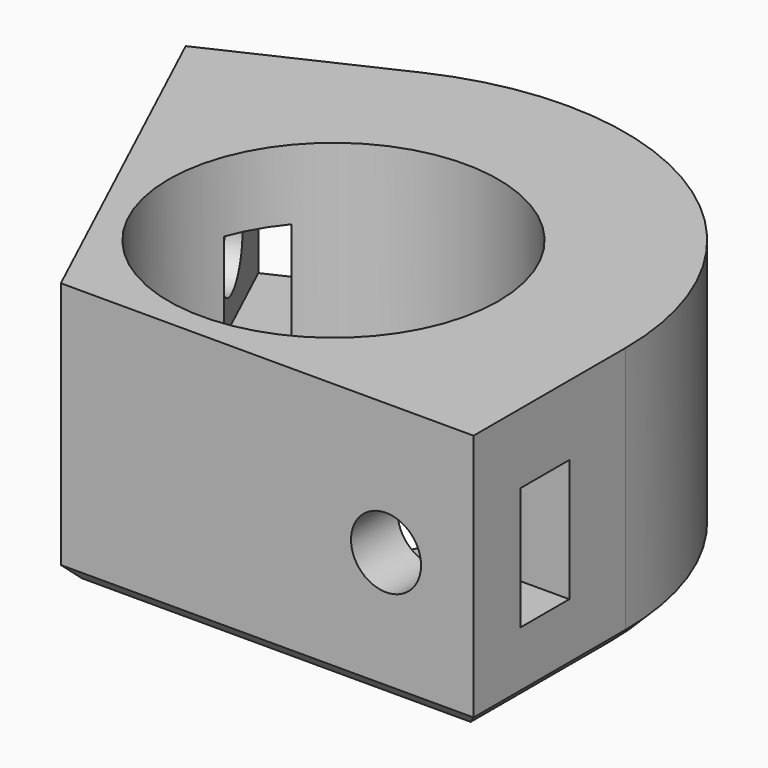
from build123d import *

# Parameters (mm, degrees)
SKETCH_R             = 1.2
PAD_DEPTH            = 18
POCKET001_DEPTH      = 0.001
POCKET001_DEPTH_BACK = 18.001
SKETCH001_R          = 11.3
POCKET_DEPTH         = 16.5
SKETCH003_R          = 2.4
POCKET002_DEPTH      = 13
SKETCH004_R          = 2.4
POCKET003_DEPTH      = 13
SKETCH005_W          = 4.2
SKETCH005_H          = 8.4
POCKET004_DEPTH      = 12
SKETCH007_W          = 4.2
SKETCH007_H          = 8.4
POCKET005_DEPTH      = 12
CHAMFER_SIZE         = 1


with BuildPart() as part:
    # Sketch → Pad (new body)
    with BuildSketch(Plane.XY):
        with BuildLine():
            Line((-8.2819133905, -13), (-20.2343664663, 12.6321183381))
            Line((-20.2343664663, 12.6321183381), (-8.4523652348, 18.1261557407))
            ThreePointArc((20, 0), (10.7459921669, 16.8678289163), (-8.4523652348, 18.1261557407))
            Line((20, -13), (20, 0))
            Line((-8.2819133905, -13), (20, -13))
        make_face()
        with Locations((0, 9)):
            Circle(SKETCH_R, mode=Mode.SUBTRACT)
        with Locations((0, -9)):
            Circle(SKETCH_R, mode=Mode.SUBTRACT)
        with Locations((9, 0)):
            Circle(SKETCH_R, mode=Mode.SUBTRACT)
        with Locations((-9, 0)):
            Circle(SKETCH_R, mode=Mode.SUBTRACT)
    extrude(amount=PAD_DEPTH)

    # Sketch002 → Pocket001 (cut, two sides)
    with BuildSketch(Plane.XY) as pocket001_sk:
        with BuildLine():
            Line((-1.7956262222, -6.9724978645), (-6.9724978645, -1.7956262222))
            ThreePointArc((1.7956262222, 6.9724978645), (-5.0911688245, 5.0911688245), (-6.9724978645, -1.7956262222))
            Line((1.7956262222, 6.9724978645), (6.9724978645, 1.7956262222))
            ThreePointArc((-1.7956262222, -6.9724978645), (5.0911688245, -5.0911688245), (6.9724978645, 1.7956262222))
        make_face()
    extrude(amount=-POCKET001_DEPTH, mode=Mode.SUBTRACT)
    extrude(pocket001_sk.sketch, amount=POCKET001_DEPTH_BACK, mode=Mode.SUBTRACT)

    # Sketch001 (on Face11 of Pad) → Pocket (cut)
    with BuildSketch(Plane.XY.offset(18)):
        Circle(SKETCH001_R)
    extrude(amount=-POCKET_DEPTH, mode=Mode.SUBTRACT)

    # Sketch003 (on Face1 of Pocket) → Pocket002 (cut)
    with BuildSketch(Plane(origin=(-11.7820012315, -5.4940374026, 0), x_dir=(0.4226182617, -0.906307787, 0), z_dir=(-0.906307787, -0.4226182617, 0))):
        with Locations((-14, 9)):
            Circle(SKETCH003_R)
    extrude(amount=-POCKET002_DEPTH, mode=Mode.SUBTRACT)

    # Sketch004 (on Face2 of Pocket002) → Pocket003 (cut)
    with BuildSketch(Plane.XZ.offset(13)):
        with Locations((14, 9)):
            Circle(SKETCH004_R)
    extrude(amount=-POCKET003_DEPTH, mode=Mode.SUBTRACT)

    # Sketch005 (on Face5 of Pocket003) → Pocket004 (cut)
    with BuildSketch(Plane(origin=(-8.4523652348, 18.1261557407, 0), x_dir=(-0.906307787, -0.4226182617, 0), z_dir=(-0.4226182617, 0.906307787, 0))):
        with Locations((6.9, 9)):
            Rectangle(SKETCH005_W, SKETCH005_H)
    extrude(amount=-POCKET004_DEPTH, mode=Mode.SUBTRACT)

    # Sketch007 (on Face7 of Pocket004) → Pocket005 (cut)
    with BuildSketch(Plane.YZ.offset(20)):
        with Locations((-6.9, 9)):
            Rectangle(SKETCH007_W, SKETCH007_H)
    extrude(amount=-POCKET005_DEPTH, mode=Mode.SUBTRACT)

    # Chamfer
    chamfer_edges = [part.edges().sort_by_distance(p)[0] for p in [
        (20, -6.5, 0),
        (10.745992, 16.867829, 0),
        (5.859043, -13, 0),
        (-14.25814, -0.183941, 0),
        (-14.343366, 15.379137, 0),
    ]]
    chamfer(chamfer_edges, length=CHAMFER_SIZE)


solid = part.part
